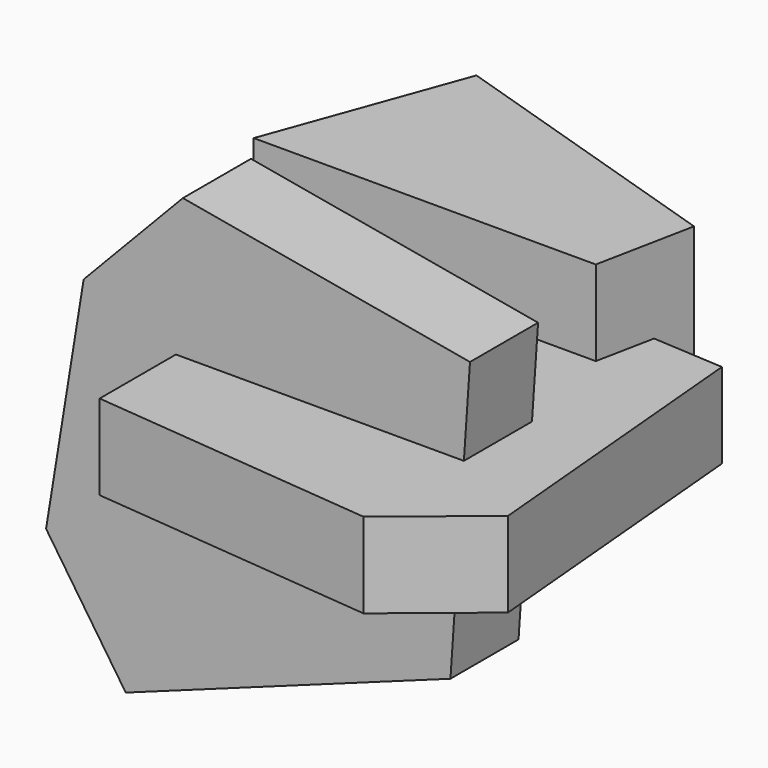
from build123d import *

# Parameters (mm, degrees)
F1_DEPTH      = 25.4
F3_DEPTH      = 25.4
F5_DEPTH      = 25.4
F5_DEPTH_BACK = 27.94


with BuildPart() as f1:
    # F0 (on Front) → F1 (new body)
    with BuildSketch(Plane.XZ):
        Polygon((43.29247, 51.976606), (-42.395219, 67.168467), (-72.004579, 36.189649), (-83.220236, -32.996144), (-59.443031, -68.303168), (37.460331, -33.151548), align=None)
    extrude(amount=F1_DEPTH)

    # F2 (on Top) → F3 (join)
    with BuildSketch(Plane.XY):
        Polygon((58.817156, 49.181223), (-44.473868, 55.597309), (-44.473868, -53.853892), (40.803842, -62.028117), (66.853315, -40.667363), align=None)
    extrude(amount=F3_DEPTH)

    # F4 (on face) → F5 (join, two sides)
    with BuildSketch(Plane.XY.offset(25.4)) as f5_sk:
        Polygon((-68.057574, 33.107851), (34.036424, 33.107851), (39.893586, 62.429648), (-47.290079, 90.245612), align=None)
        Polygon((-68.057574, 33.107851), (34.036424, 33.107851), (39.893586, 62.429648), (-47.290079, 90.245612), align=None)
    extrude(amount=F5_DEPTH)
    extrude(f5_sk.sketch, amount=-F5_DEPTH_BACK)


solid = f1.part
